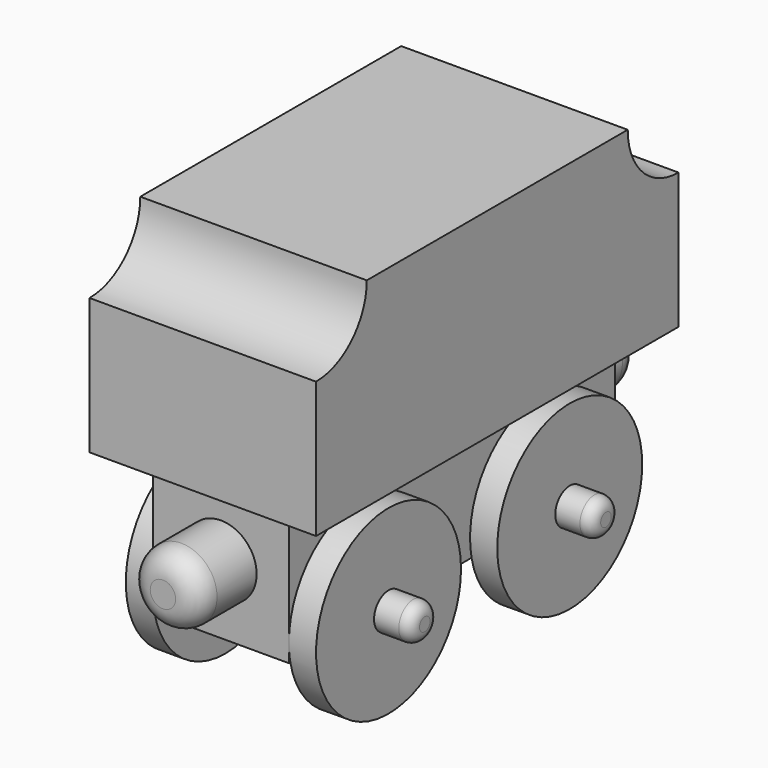
from build123d import *

# Parameters (mm, degrees)
F0_W      = 15
F0_H      = 15
F1_DEPTH  = 22.5
F2_W      = 50
F2_H      = 22
F3_DEPTH  = 12.5
F5_DEPTH  = 12.7
F6_R      = 10
F7_DEPTH  = 3
F8_R      = 2
F9_DEPTH  = 4
F10_R     = 1.27
F11_R     = 3.941379
F12_DEPTH = 8
F13_R     = 2.54


with BuildPart() as f1:
    # F0 (on Front) → F1 (new body, symmetric)
    with BuildSketch(Plane.XZ):
        Rectangle(F0_W, F0_H)
    extrude(amount=F1_DEPTH, both=True)

    # F2 (on Right) → F3 (join, symmetric)
    with BuildSketch(Plane.YZ):
        with Locations((0, 18.5)):
            Rectangle(F2_W, F2_H)
    extrude(amount=F3_DEPTH, both=True)

    # F4 (on Right) → F5 (cut, symmetric)
    with BuildSketch(Plane.YZ):
        with BuildLine():
            Line((-25, 29.5), (-25, 22.5))
            ThreePointArc((-25, 22.5), (-20.050253, 24.550253), (-18, 29.5))
            Line((-18, 29.5), (-25, 29.5))
        make_face()
        with BuildLine():
            ThreePointArc((18, 29.5), (20.050253, 24.550253), (25, 22.5))
            Line((25, 22.5), (25, 29.5))
            Line((25, 29.5), (18, 29.5))
        make_face()
    extrude(amount=F5_DEPTH, both=True, mode=Mode.SUBTRACT)

    # F6 (on face) → F7 (join)
    with BuildSketch(Plane.YZ.offset(7.5)):
        with Locations((12.5, -5.5)):
            Circle(F6_R)
        with Locations((-12.5, -5.5)):
            Circle(F6_R)
    extrude(amount=F7_DEPTH)

    # F8 (on face) → F9 (join)
    with BuildSketch(Plane.YZ.offset(10.5)):
        with Locations((12.5, -5.5)):
            Circle(F8_R)
    extrude(amount=F9_DEPTH)

    # F10
    f10_edges = [f1.edges().sort_by_distance(p)[0] for p in [
        (14.5, 10.5, -5.5),
    ]]
    fillet(f10_edges, radius=F10_R)

    # F11 (on face) → F12 (join)
    with BuildSketch(Plane(origin=(0, 22.5, 0), x_dir=(-1, 0, 0), z_dir=(0, 1, 0))):
        Circle(F11_R)
    extrude(amount=F12_DEPTH)

    # F13
    f13_edges = [f1.edges().sort_by_distance(p)[0] for p in [
        (3.941379, 30.5, 0),
    ]]
    fillet(f13_edges, radius=F13_R)

    # F14: F1 across plane


with BuildPart() as f1_1:
    add(f1.part)
    add(f1.part.mirror(Plane.YZ))

    # F15: F1 across plane


with BuildPart() as f1_2:
    add(f1_1.part)
    add(f1_1.part.mirror(Plane.XZ))


solid = f1_2.part
